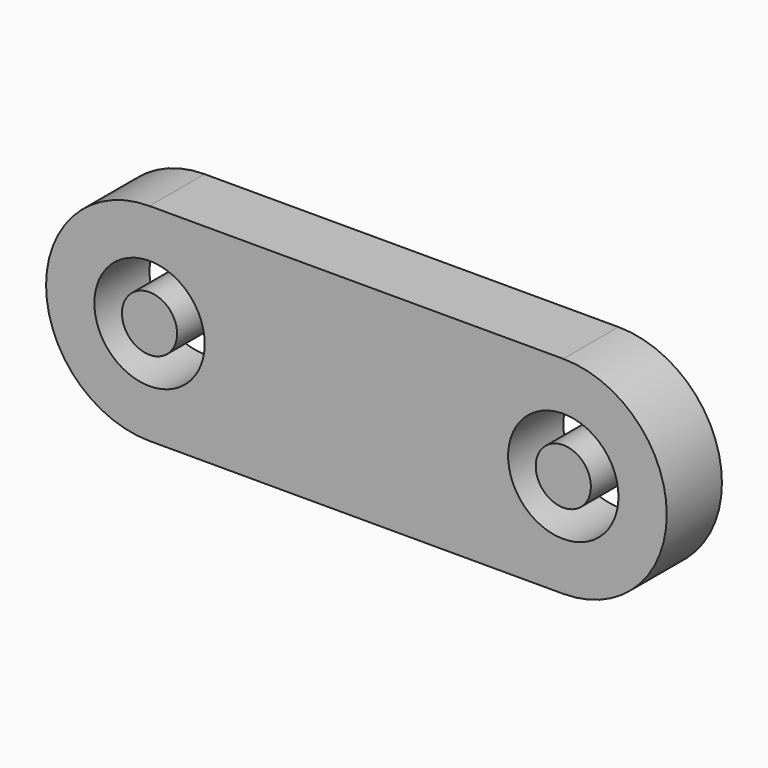
from build123d import *

# Parameters (mm, degrees)
F0_R     = 4
F1_DEPTH = 5
F2_R     = 2
F3_DEPTH = 5


with BuildPart() as f1:
    # F0 (on Front) → F1 (new body)
    with BuildSketch(Plane.XZ):
        with BuildLine():
            Line((30, 7.5), (0, 7.5))
            ThreePointArc((0, 7.5), (-7.5, 0), (0, -7.5))
            Line((0, -7.5), (30, -7.5))
            ThreePointArc((30, -7.5), (37.5, 0), (30, 7.5))
        make_face()
        Circle(F0_R, mode=Mode.SUBTRACT)
        with Locations((30, 0)):
            Circle(F0_R, mode=Mode.SUBTRACT)
    extrude(amount=F1_DEPTH)


with BuildPart() as f3:
    # F2 (on Front) → F3 (new body)
    with BuildSketch(Plane.XZ):
        Circle(F2_R)
        with Locations((30, 0)):
            Circle(F2_R)
    extrude(amount=F3_DEPTH)


solid = Compound([f1.part, f3.part])
